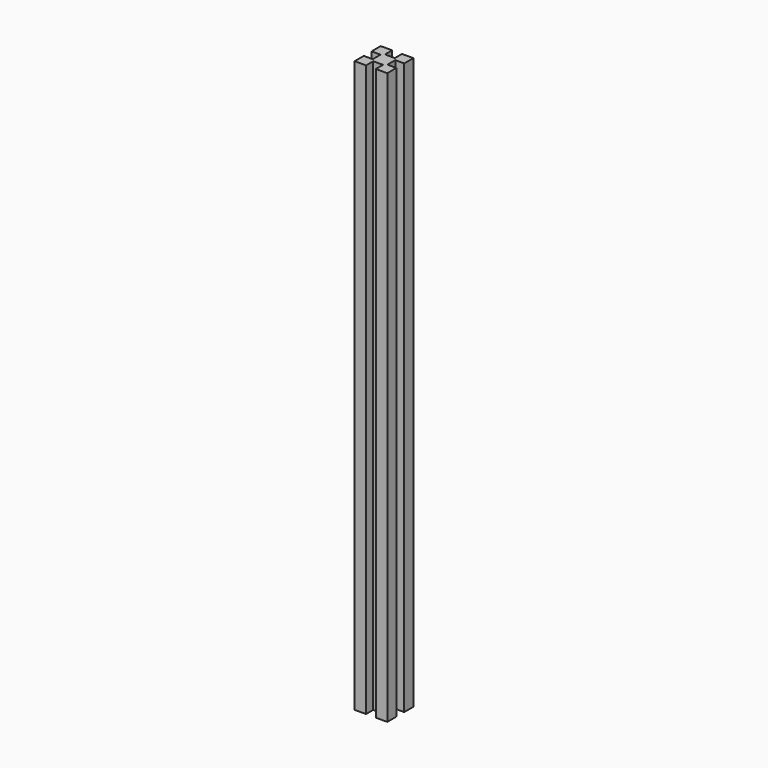
from build123d import *

# Parameters (mm, degrees)
F1_DEPTH = 350


with BuildPart() as f1:
    # F0 (on Top) → F1 (new body)
    with BuildSketch(Plane.XY):
        Polygon((0, 7), (0, 0), (7, 0), (7, 5.5), (13, 5.5), (13, 0), (20, 0), (20, 7), (14.5, 7), (14.5, 13), (20, 13), (20, 20), (13, 20), (13, 14.5), (7, 14.5), (7, 20), (0, 20), (0, 13), (5.5, 13), (5.5, 7), align=None)
    extrude(amount=F1_DEPTH)


solid = f1.part
